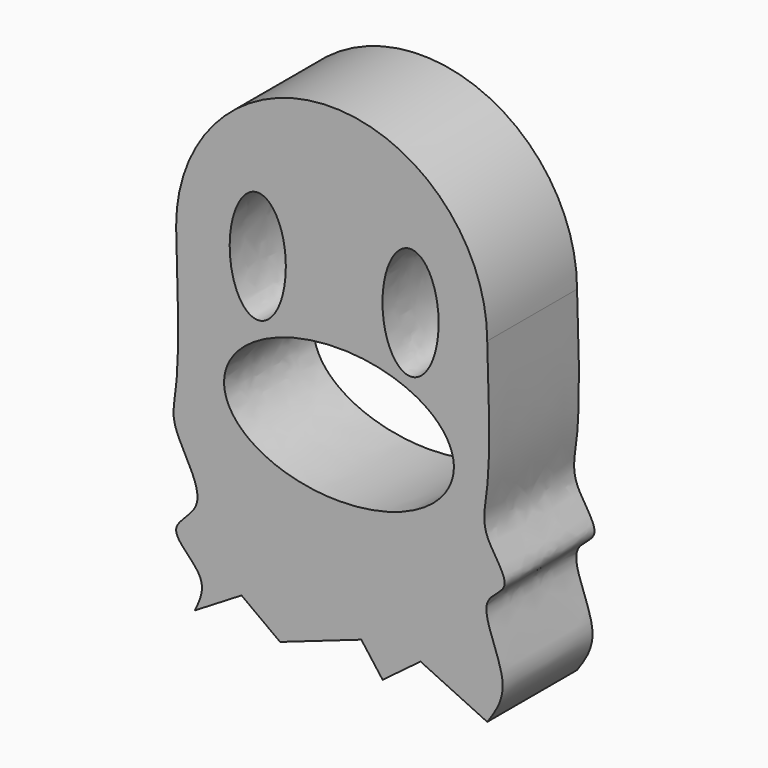
from build123d import *

# Parameters (mm, degrees)
F1_DEPTH = 25.4


with BuildPart() as f1:
    # F0 (on Front) → F1 (new body)
    with BuildSketch(Plane.XZ):
        with BuildLine():
            add(Edge.make_bspline(
                [(33.5363921551, 0), (33.9080503015, -11.007391355), (34.4965604021, -28.4372823861), (31.4981838417, -38.4265799345), (40.4885377137, -47.9763659856), (29.8994235012, -51.4539062408), (39.7338912438, -66.9346122532), (35.4677482135, -73.069574644), (33.5363921551, -75.8469772528)],
                knots=[0, 0, 0, 0, 0.2556398625, 0.4047984488, 0.54991024, 0.6680784589, 0.8497334302, 1, 1, 1, 1], degree=3))
            ThreePointArc((33.5363921551, 0), (-1.6493287325, 35.1857208876), (-36.8350496202, 0))
            add(Edge.make_bspline(
                [(-36.8350496202, 0), (-36.4587004208, -12.4492421861), (-35.8850816983, -31.4239561264), (-38.8239034904, -40.0162228604), (-27.8861063097, -54.0841505323), (-40.8604743479, -60.2496717683), (-29.0513552965, -67.6864456309), (-31.4727458652, -72.7749193903), (-32.6068031863, -75.1581040757)],
                knots=[0, 0, 0, 0, 0.269151787, 0.4102320518, 0.5883116679, 0.7261746602, 0.8717540097, 1, 1, 1, 1], degree=3))
            Line((-32.6068031863, -75.1581040757), (-22.0440358096, -68.7285931954))
            Line((-22.0440358096, -68.7285931954), (-13.3182714171, -75.1581040757))
            Line((-13.3182714171, -75.1581040757), (5.0517575526, -68.7285931954))
            Line((5.0517575526, -68.7285931954), (9.8738924562, -75.1581040757))
            Line((9.8738924562, -75.1581040757), (18.4465705306, -68.7285931954))
            Line((18.4465705306, -68.7285931954), (33.5363921551, -75.8469772528))
        make_face()
        with BuildLine():
            add(Edge.make_bspline(
                [(0, -42.7674170168), (45.005954594, -42.7674170168), (22.502977297, -19.9455170168), (0, 2.8763829832), (-22.502977297, -19.9455170168), (-45.005954594, -42.7674170168), (0, -42.7674170168)],
                knots=[4.7123889804, 4.7123889804, 4.7123889804, 6.8067840828, 6.8067840828, 8.9011791852, 8.9011791852, 10.9955742876, 10.9955742876, 10.9955742876], degree=2, weights=[1, 0.5, 1, 0.5, 1, 0.5, 1]))
        make_face(mode=Mode.SUBTRACT)
        with BuildLine():
            add(Edge.make_bspline(
                [(-18.3700298414, -12.7), (-7.3715072133, -12.7), (-12.8707685273, 6.35), (-18.3700298414, 25.4), (-23.8692911554, 6.35), (-29.3685524694, -12.7), (-18.3700298414, -12.7)],
                knots=[0, 0, 0, 2.0943951024, 2.0943951024, 4.1887902048, 4.1887902048, 6.2831853072, 6.2831853072, 6.2831853072], degree=2, weights=[1, 0.5, 1, 0.5, 1, 0.5, 1]))
        make_face(mode=Mode.SUBTRACT)
        with BuildLine():
            add(Edge.make_bspline(
                [(16.192028299, 12.7), (5.1935056709, 12.7), (10.6927669849, -6.35), (16.192028299, -25.4), (21.691289613, -6.35), (27.190550927, 12.7), (16.192028299, 12.7)],
                knots=[0, 0, 0, 2.0943951024, 2.0943951024, 4.1887902048, 4.1887902048, 6.2831853072, 6.2831853072, 6.2831853072], degree=2, weights=[1, 0.5, 1, 0.5, 1, 0.5, 1]))
        make_face(mode=Mode.SUBTRACT)
    extrude(amount=F1_DEPTH)


solid = f1.part
